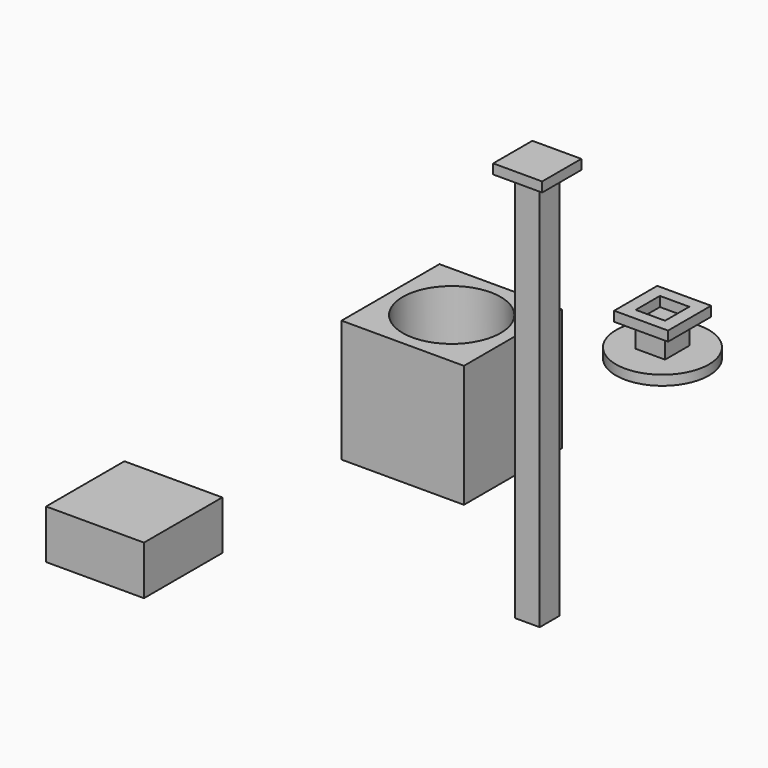
from build123d import *

# Parameters (mm, degrees)
F0_W      = 25
F0_H      = 25
F1_DEPTH  = 25
F2_D      = 20
F3_R      = 9.5
F4_DEPTH  = 2
F5_W      = 6
F5_H      = 6.1806928968
F6_DEPTH  = 5
F7_W      = 15
F7_H      = 15
F8_DEPTH  = 80
F9_W      = 5
F9_H      = 5
F10_DEPTH = 80
F12_W     = 10
F12_H     = 10
F12_W_2   = 5
F12_H_2   = 5
F13_DEPTH = 2
F14_W     = 20
F14_H     = 20
F15_DEPTH = 10
F16_W     = 11
F16_H     = 11
F16_W_2   = 6
F16_H_2   = 6.1806928968
F17_DEPTH = 2


with BuildPart() as f1:
    # F0 (on Top) → F1 (new body)
    with BuildSketch(Plane.XY):
        Rectangle(F0_W, F0_H)
    extrude(amount=F1_DEPTH)

    # F2 (through all)
    with Locations(Plane(origin=(0, 0, 0), x_dir=(1, 0, 0), z_dir=(0, 0, -1))):
        with Locations((0, 0)):
            Hole(F2_D / 2)


with BuildPart() as f4:
    # F3 (on Top) → F4 (new body)
    with BuildSketch(Plane.XY):
        with Locations((5.6182225235, 46.8035712838)):
            Circle(F3_R)
    extrude(amount=F4_DEPTH)

    # F5 (on face) → F6 (join)
    with BuildSketch(Plane.XY.offset(2)):
        with Locations((5.6182225235, 46.8035712838)):
            Rectangle(F5_W, F5_H)
    extrude(amount=F6_DEPTH)


with BuildPart() as f8:
    # F7 (on Top) → F8 (new body)
    with BuildSketch(Plane.XY):
        with Locations((1.6906128443, -58.413207531)):
            Rectangle(F7_W, F7_H)
    extrude(amount=F8_DEPTH)


with BuildPart() as f10:
    # F9 (on Top) → F10 (new body)
    with BuildSketch(Plane.XY):
        with Locations((45.8536446095, -35.4659261686)):
            Rectangle(F9_W, F9_H)
    extrude(amount=F10_DEPTH)

    # F12 (on face) → F13 (join)
    with BuildSketch(Plane.XY.offset(80)):
        with Locations((45.8536446095, -35.4659261686)):
            Rectangle(F12_W, F12_H)
        with Locations((45.8536446095, -35.4659261686)):
            Rectangle(F12_W_2, F12_H_2, mode=Mode.SUBTRACT)
        with Locations((45.8536446095, -35.4659261686)):
            Rectangle(F12_W_2, F12_H_2)
    extrude(amount=F13_DEPTH)


with BuildPart() as f15:
    # F14 (on Top) → F15 (new body)
    with BuildSketch(Plane.XY):
        with Locations((-17.2017511346, -59.575650841)):
            Rectangle(F14_W, F14_H)
    extrude(amount=F15_DEPTH)


with BuildPart() as f17:
    # F16 (on face) → F17 (new body)
    with BuildSketch(Plane.XY.offset(7)):
        with Locations((5.6182225235, 46.8469336629)):
            Rectangle(F16_W, F16_H)
        with Locations((5.6182225235, 46.8035712838)):
            Rectangle(F16_W_2, F16_H_2, mode=Mode.SUBTRACT)
    extrude(amount=F17_DEPTH)


solid = Compound([f1.part, f4.part, f10.part, f15.part, f17.part])
